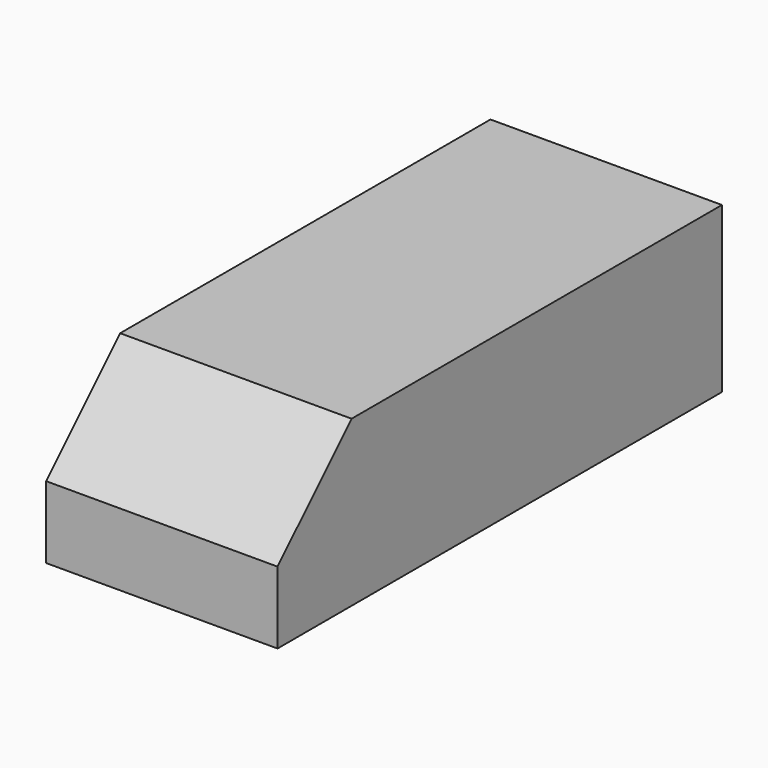
from build123d import *

# Parameters (mm, degrees)
F0_W     = 152.4
F0_H     = 45.182696
F1_DEPTH = 63.5
F2_SIZE  = 25.4


with BuildPart() as f1:
    # F0 (on Right) → F1 (new body)
    with BuildSketch(Plane.YZ):
        Rectangle(F0_W, F0_H)
    extrude(amount=-F1_DEPTH)

    # F2
    f2_edges = [f1.edges().sort_by_distance(p)[0] for p in [
        (-31.75, -76.2, 22.591348),
    ]]
    chamfer(f2_edges, length=F2_SIZE)


solid = f1.part
